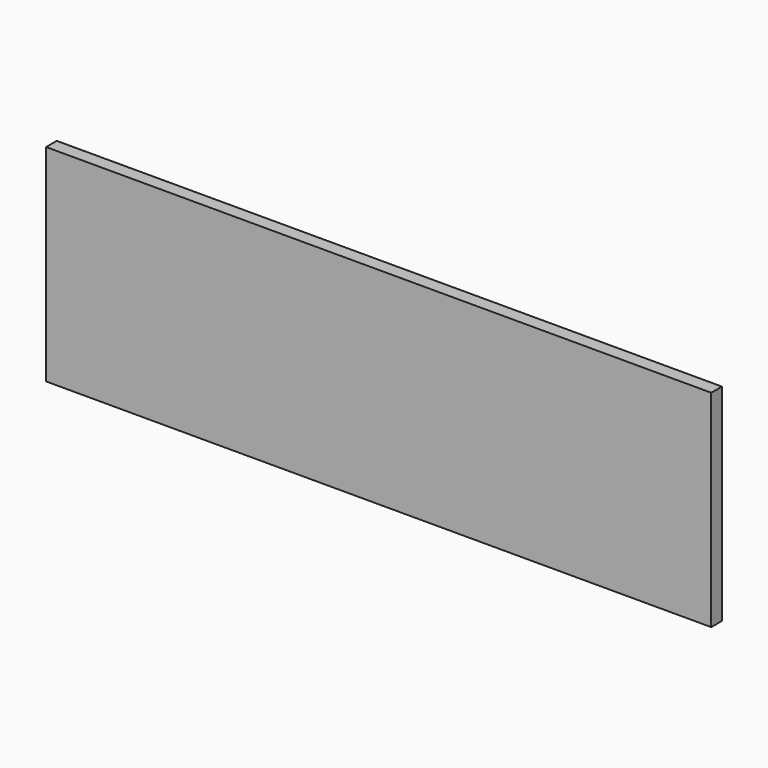
from build123d import *

# Parameters (mm, degrees)
F0_W     = 63.8693869114
F0_H     = 55.2091002464
F1_DEPTH = 18
F2_DEPTH = 896
F3_DEPTH = 280
F4_DEPTH = 25
F5_DEPTH = 2


with BuildPart() as f1:
    # F0 (on Front) → F1 (new body)
    with BuildSketch(Plane.XZ):
        with Locations((31.9346934557, 27.6045501232)):
            Rectangle(F0_W, F0_H)
    extrude(amount=F1_DEPTH)

    # F2 (add): a face of the model
    f2_faces = [f1.faces().sort_by_distance(p)[0] for p in [
        (0, -9, 27.6045501232),
    ]]
    extrude(f2_faces, amount=-F2_DEPTH)

    # F3 (add): a face of the model
    f3_faces = [f1.faces().sort_by_distance(p)[0] for p in [
        (448, -9, 0),
    ]]
    extrude(f3_faces, amount=-F3_DEPTH)

    # F4 (add): a face of the model
    f4_faces = [f1.faces().sort_by_distance(p)[0] for p in [
        (448, -9, 0),
    ]]
    extrude(f4_faces, amount=-F4_DEPTH)

    # F5 (cut): a face of the model
    f5_faces = [f1.faces().sort_by_distance(p)[0] for p in [
        (448, -9, 280),
    ]]
    extrude(f5_faces, amount=-F5_DEPTH, mode=Mode.SUBTRACT)


solid = f1.part
